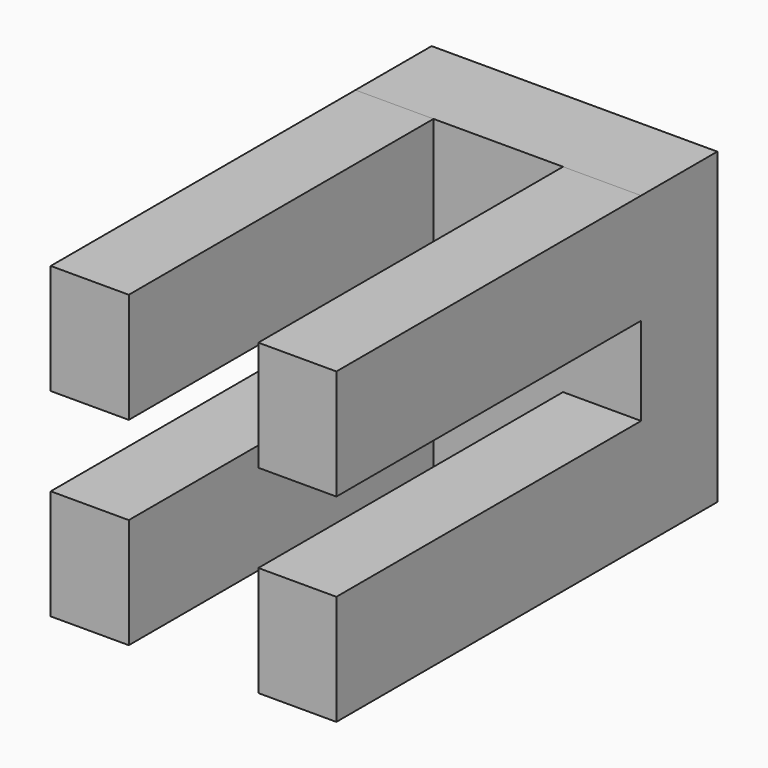
from build123d import *

# Parameters (mm, degrees)
F0_W     = 19.05
F0_H     = 20.574
F1_DEPTH = 6.35
F2_W     = 5.20607
F2_H     = 7.345125
F3_DEPTH = 25.4


with BuildPart() as f1:
    # F0 (on Front) → F1 (new body)
    with BuildSketch(Plane.XZ):
        with Locations((9.525, 10.287)):
            Rectangle(F0_W, F0_H)
    extrude(amount=F1_DEPTH)

    # F2 (on face) → F3 (join)
    with BuildSketch(Plane.XZ.offset(6.35)):
        with Locations((2.603035, 3.672562)):
            Rectangle(F2_W, F2_H)
        with Locations((2.603035, 16.901438)):
            Rectangle(F2_W, F2_H)
        with Locations((16.446965, 3.672562)):
            Rectangle(F2_W, F2_H)
        with Locations((16.446965, 16.901438)):
            Rectangle(F2_W, F2_H)
    extrude(amount=F3_DEPTH)


solid = f1.part
